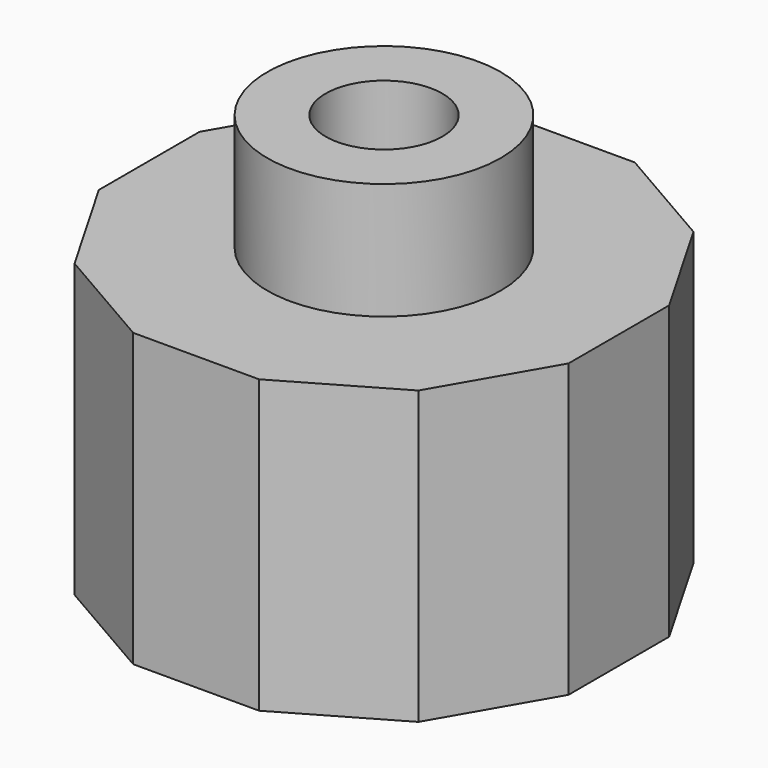
from build123d import *

# Parameters (mm, degrees)
PAD_DEPTH    = 15
SKETCH001_R  = 6
PAD001_DEPTH = 6
SKETCH002_R  = 3
POCKET_DEPTH = 21.001


with BuildPart() as part:
    # Sketch → Pad (new body)
    with BuildSketch(Plane.XY):
        Polygon((8.838835, 8.838835), (3.235238, 12.074073), (-3.235238, 12.074073), (-8.838835, 8.838835), (-12.074073, 3.235238), (-12.074073, -3.235238), (-8.838835, -8.838835), (-3.235238, -12.074073), (3.235238, -12.074073), (8.838835, -8.838835), (12.074073, -3.235238), (12.074073, 3.235238), align=None)
    extrude(amount=PAD_DEPTH)

    # Sketch001 (on Face14 of Pad) → Pad001 (join)
    with BuildSketch(Plane.XY.offset(15)):
        Circle(SKETCH001_R)
    extrude(amount=PAD001_DEPTH)

    # Sketch002 (on Face16 of Pad001) → Pocket (cut, through all)
    with BuildSketch(Plane.XY.offset(21)):
        Circle(SKETCH002_R)
    extrude(amount=-POCKET_DEPTH, mode=Mode.SUBTRACT)


solid = part.part
